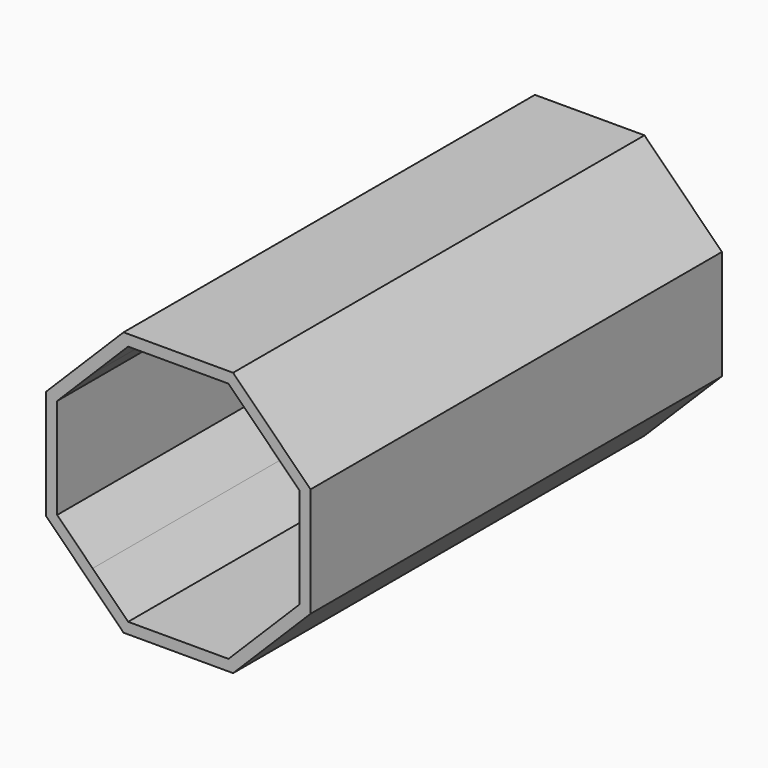
from build123d import *

# Parameters (mm, degrees)
F1_DEPTH = 19.05


with BuildPart() as f1:
    # F0 (on Front) → F1 (new body, symmetric)
    with BuildSketch(Plane.XZ):
        Polygon((-6.927989, 6.927989), (-6.347221, 6.347221), (-3.718116, 8.976327), (3.718116, 8.976327), (6.347221, 6.347221), (6.927989, 6.927989), (4.058322, 9.797656), (-4.058322, 9.797656), align=None)
        Polygon((-8.976327, 3.718116), (-6.347221, 6.347221), (-6.927989, 6.927989), (-9.797656, 4.058322), (-9.797656, -4.058322), (-6.927989, -6.927989), (-6.347221, -6.347221), (-8.976327, -3.718116), align=None)
        Polygon((6.927989, 6.927989), (6.347221, 6.347221), (8.976327, 3.718116), (8.976327, -3.718116), (6.347221, -6.347221), (6.927989, -6.927989), (9.797656, -4.058322), (9.797656, 4.058322), align=None)
        Polygon((-3.718116, -8.976327), (-6.347221, -6.347221), (-6.927989, -6.927989), (-4.058322, -9.797656), (4.058322, -9.797656), (6.927989, -6.927989), (6.347221, -6.347221), (3.718116, -8.976327), align=None)
    extrude(amount=F1_DEPTH, both=True)


solid = f1.part
